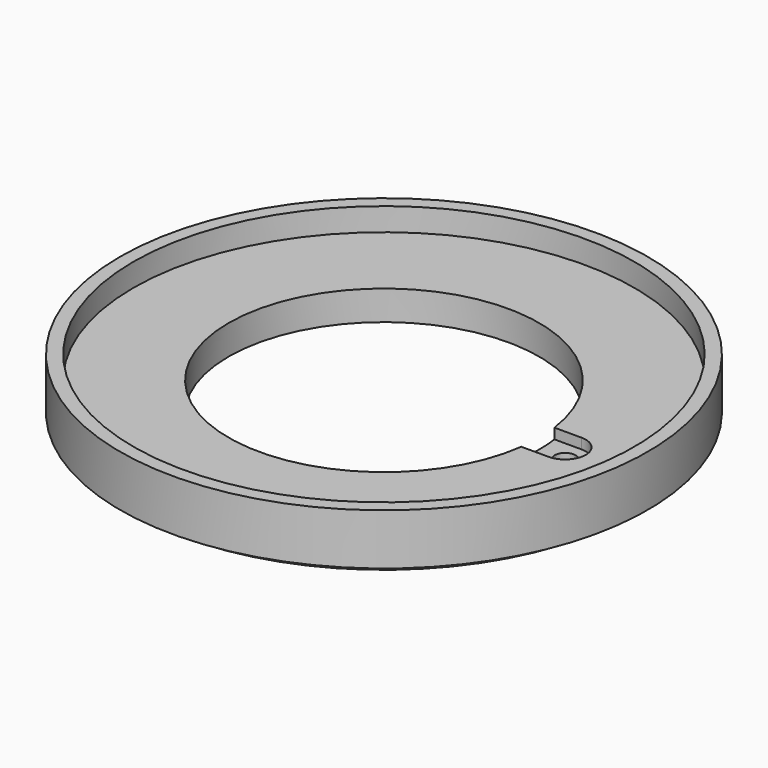
from build123d import *

# Parameters (mm, degrees)
F3_R     = 1
F4_DEPTH = 1
F5_DEPTH = 2.86


with BuildPart() as f2:
    # F0 (on Front) → F2 (revolve)
    with BuildSketch(Plane.XZ):
        Polygon((-24.2083683173, 5.8015905717), (-25.5083683173, 5.8015905717), (-25.5083683173, 0.8515905717), (-24.1083683173, 0.8515905717), (-24.1083683173, 0.0015905717), (-19.6583683173, 0.0015905717), (-19.6583683173, 0.7215905717), (-15.0083683173, 0.7215905717), (-15.0083683173, 3.5815905717), (-24.2083683173, 3.5815905717), align=None)
    revolve(axis=Axis((0, 0, 5), (0, 0, -1)))

    # F3 (on face) → F4 (cut)
    with BuildSketch(Plane.XY.offset(3.5815905717)):
        with BuildLine():
            Line((14.8745124138, -2), (17.5083683173, -2))
            ThreePointArc((17.5083683173, -2), (19.5083683173, 0), (17.5083683173, 2))
            Line((17.5083683173, 2), (14.8745124138, 2))
            ThreePointArc((14.8745124138, 2), (14.9748669509, 1.0022371729), (15.0083683173, 0))
            ThreePointArc((15.0083683173, 0), (14.9748669509, -1.0022371729), (14.8745124138, -2))
        make_face()
        with Locations((17.5083683173, 0)):
            Circle(F3_R, mode=Mode.SUBTRACT)
    extrude(amount=-F4_DEPTH, mode=Mode.SUBTRACT)

    # F3 (on face) → F5 (cut)
    with BuildSketch(Plane.XY.offset(3.5815905717)):
        with Locations((17.5083683173, 0)):
            Circle(F3_R)
    extrude(amount=-F5_DEPTH, mode=Mode.SUBTRACT)


solid = f2.part
